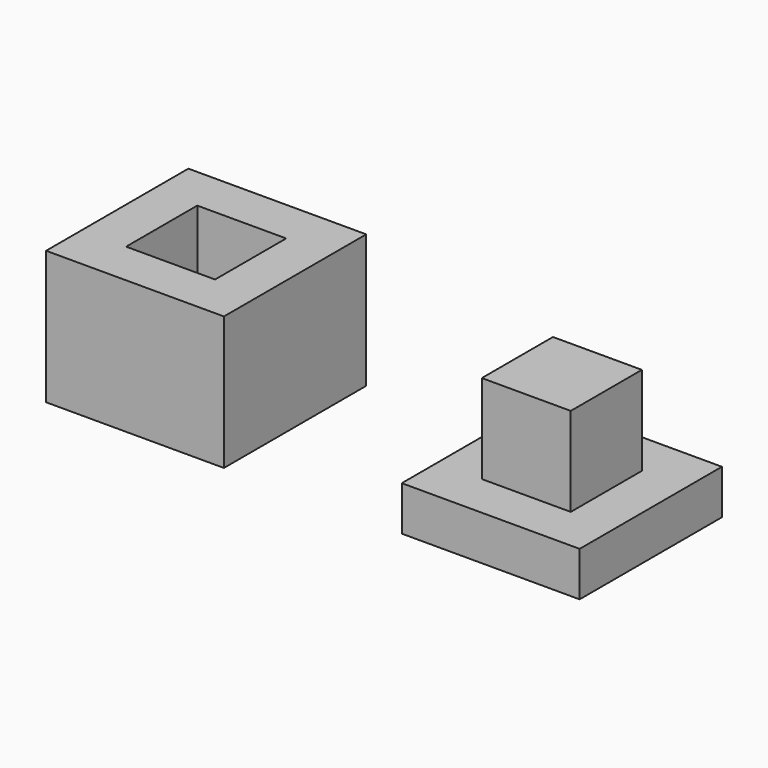
from build123d import *

# Parameters (mm, degrees)
F0_W     = 20
F0_H     = 20
F0_W_2   = 10
F0_H_2   = 10
F1_DEPTH = 5
F2_DEPTH = 15
F4_DEPTH = 15
F5_DEPTH = 5
F6_ANGLE = -180


with BuildPart() as f1:
    # F0 (on Top) → F1 (new body)
    with BuildSketch(Plane.XY):
        Rectangle(F0_W, F0_H)
        Rectangle(F0_W_2, F0_H_2, mode=Mode.SUBTRACT)
        Rectangle(F0_W_2, F0_H_2)
    extrude(amount=F1_DEPTH)

    # F0 (on Top) → F2 (join)
    with BuildSketch(Plane.XY):
        Rectangle(F0_W_2, F0_H_2)
    extrude(amount=F2_DEPTH)


with BuildPart() as f1_1:
    # F3: moved
    add(f1.part.moved(Location((30, 0, 0))))


with BuildPart() as f4:
    # F0 (on Top) → F4 (new body)
    with BuildSketch(Plane.XY):
        Rectangle(F0_W, F0_H)
        Rectangle(F0_W_2, F0_H_2, mode=Mode.SUBTRACT)
    extrude(amount=-F4_DEPTH)

    # F0 (on Top) → F5 (join)
    with BuildSketch(Plane.XY):
        Rectangle(F0_W_2, F0_H_2)
    extrude(amount=-F5_DEPTH)


with BuildPart() as f4_1:
    # F6: moved
    add(f4.part.rotate(Axis((-5, 0, 0), (0, 1, 0)), F6_ANGLE))


solid = Compound([f1_1.part, f4_1.part])
